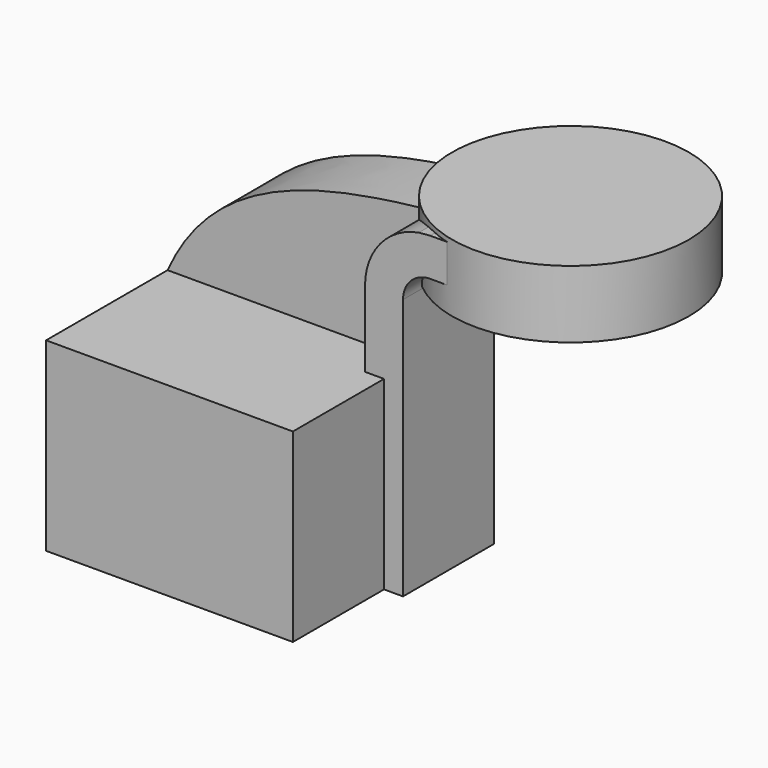
from build123d import *

# Parameters (mm, degrees)
F1_DEPTH = 76.2
F0_W     = 6.35
F0_H     = 61.992716
F2_DEPTH = 38.1
F3_DEPTH = 25.4


with BuildPart() as f1:
    # F0 (on Front) → F1 (new body)
    with BuildSketch(Plane.XZ):
        Polygon((38.1, -30.996358), (38.1, 30.996358), (31.75, 30.996358), (-44.45, 30.996358), (-44.45, -30.996358), align=None)
    extrude(amount=F1_DEPTH)

    # F0 (on Front) → F2 (join)
    with BuildSketch(Plane.XZ):
        with BuildLine():
            Line((38.1, 30.996358), (44.45, 30.996358))
            Line((44.45, 30.996358), (44.45, 56.396358))
            ThreePointArc((44.45, 56.396358), (47.110789, 62.82007), (53.534501, 65.480859))
            Line((53.534501, 65.480859), (69.985434, 65.480859))
            Line((69.985434, 65.480859), (69.985434, 78.180859))
            Line((69.985434, 78.180859), (53.534501, 78.180859))
            add(Edge.make_bspline(
                [(49.729503, 77.845984), (50.993288, 77.960759), (52.261766, 78.072157), (53.534501, 78.180859)],
                knots=[105.554558, 105.554558, 105.554558, 105.554558, 108.753573, 108.753573, 108.753573, 108.753573], degree=3))
            ThreePointArc((49.729503, 77.845984), (36.839375, 70.390544), (31.75, 56.396358))
            Line((31.75, 56.396358), (31.75, 30.996358))
            Line((31.75, 30.996358), (38.1, 30.996358))
        make_face()
        with Locations((41.275, 0)):
            Rectangle(F0_W, F0_H)
    extrude(amount=F2_DEPTH)

    # F0 (on Front) → F3 (join)
    with BuildSketch(Plane.XZ):
        with BuildLine():
            Line((-44.45, 30.996358), (31.75, 30.996358))
            Line((31.75, 30.996358), (31.75, 56.396358))
            ThreePointArc((31.75, 56.396358), (36.839375, 70.390544), (49.729503, 77.845984))
            add(Edge.make_bspline(
                [(-44.45, 30.996358), (-28.561943, 66.594918), (8.029683, 74.058869), (49.729503, 77.845984)],
                knots=[0, 0, 0, 0, 105.554558, 105.554558, 105.554558, 105.554558], degree=3))
        make_face()
    extrude(amount=F3_DEPTH)

    # F0 (on Front) → F4 (revolve)
    with BuildSketch(Plane.XZ):
        Polygon((69.985434, 78.180859), (69.985434, 65.480859), (69.985434, 57.183055), (109.582732, 57.183055), (109.582732, 79.735152), (69.985434, 79.735152), align=None)
    revolve(axis=Axis((69.985434, 0, 68.459103), (0, 0, -1)))


solid = f1.part
